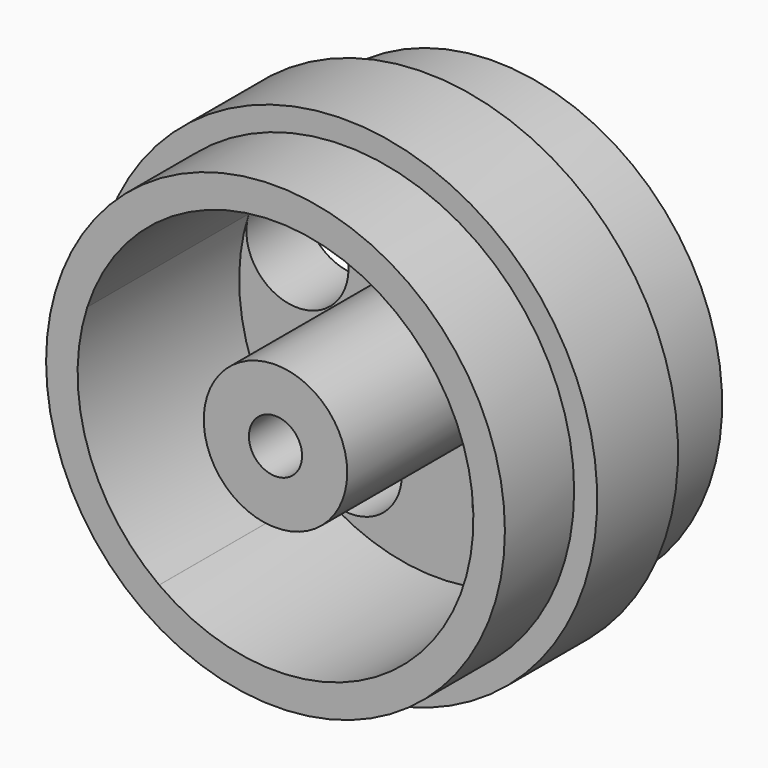
from build123d import *

# Parameters (mm, degrees)
F0_R      = 7.95
F1_DEPTH  = 3
F2_R      = 8.75
F3_DEPTH  = 3.5
F5_R      = 7.879792
F6_DEPTH  = 3
F7_R      = 1.77
F8_DEPTH  = 25
F9_R      = 6.858058
F9_R_2    = 2.485837
F9_R_3    = 0.921001
F10_DEPTH = 7


with BuildPart() as f1:
    # F0 (on Front) → F1 (new body)
    with BuildSketch(Plane.XZ):
        Circle(F0_R)
    extrude(amount=F1_DEPTH)

    # F2 (on face) → F3 (join)
    with BuildSketch(Plane(origin=(0, 0, 0), x_dir=(-1, 0, 0), z_dir=(0, 1, 0))):
        Circle(F2_R)
    extrude(amount=F3_DEPTH)

    # F5 (on face) → F6 (join)
    with BuildSketch(Plane(origin=(0, 3.5, 0), x_dir=(-1, 0, 0), z_dir=(0, 1, 0))):
        Circle(F5_R)
    extrude(amount=F6_DEPTH)

    # F7 (on face) → F8 (cut)
    with BuildSketch(Plane.XZ.offset(3)):
        with Locations((0, 5.088058)):
            Circle(F7_R)
        with Locations((-4.839031, 1.572297)):
            Circle(F7_R)
        with Locations((-2.990686, -4.116326)):
            Circle(F7_R)
        with Locations((2.990686, -4.116326)):
            Circle(F7_R)
        with Locations((4.839031, 1.572297)):
            Circle(F7_R)
    extrude(amount=-F8_DEPTH, mode=Mode.SUBTRACT)

    # F9 (on face) → F10 (cut)
    with BuildSketch(Plane.XZ.offset(3)):
        Circle(F9_R)
        Circle(F9_R_2, mode=Mode.SUBTRACT)
        Circle(F9_R_3)
    extrude(amount=-F10_DEPTH, mode=Mode.SUBTRACT)


solid = f1.part
